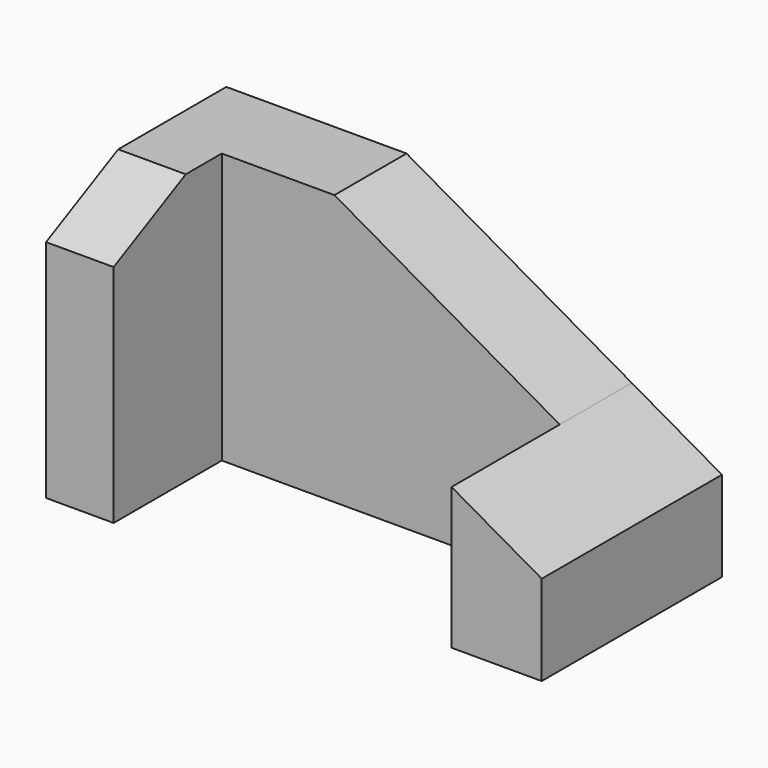
from build123d import *

# Parameters (mm, degrees)
F0_W     = 15
F0_H     = 60
F1_DEPTH = 50
F2_DEPTH = 20
F3_DEPTH = 50
F5_DEPTH = 15.001


with BuildPart() as f1:
    # F0 (on Front) → F1 (new body)
    with BuildSketch(Plane.XZ):
        with Locations((7.5, 30)):
            Rectangle(F0_W, F0_H)
    extrude(amount=F1_DEPTH)

    # F0 (on Front) → F2 (join)
    with BuildSketch(Plane.XZ):
        Polygon((15, 60), (15, 0), (90, 0), (90, 31.428571), (40, 60), align=None)
    extrude(amount=F2_DEPTH)

    # F0 (on Front) → F3 (join)
    with BuildSketch(Plane.XZ):
        Polygon((90, 31.428571), (90, 0), (110, 0), (110, 20), align=None)
    extrude(amount=F3_DEPTH)

    # F4 (on face) → F5 (cut, through all)
    with BuildSketch(Plane.YZ.offset(15)):
        Polygon((-50, 60), (-50, 50), (-30, 60), align=None)
    extrude(amount=-F5_DEPTH, mode=Mode.SUBTRACT)


solid = f1.part
